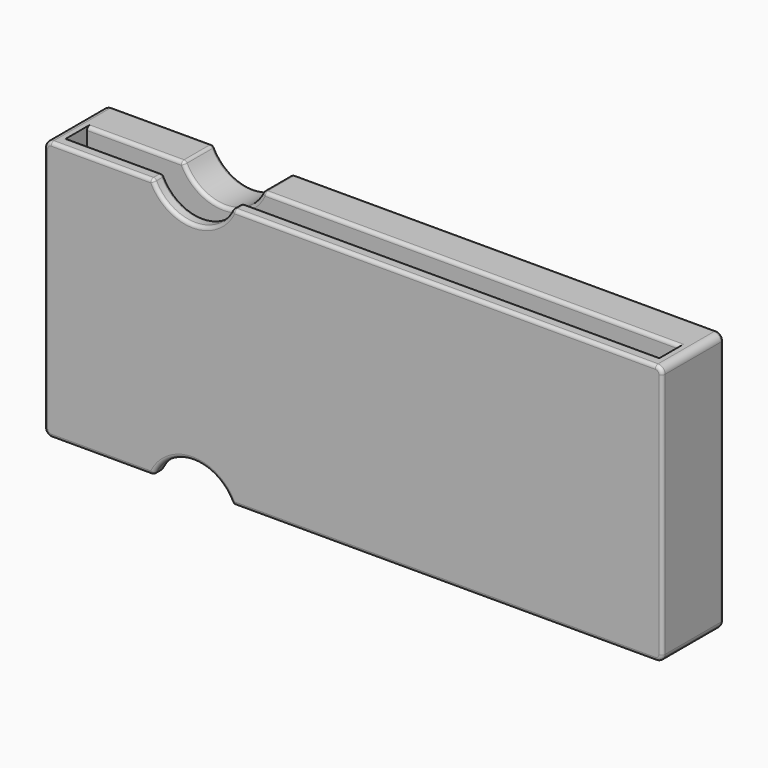
from build123d import *

# Parameters (mm, degrees)
SKETCH_W        = 178
SKETCH_H        = 22.1
SKETCH_W_2      = 171
SKETCH_H_2      = 7
PAD_DEPTH       = 75
SKETCH001_R     = 5.25
POCKET_DEPTH    = 2.1
SKETCH002_R     = 12.5
POCKET001_DEPTH = 50
FILLET_R        = 2
SKETCH003_W     = 50
SKETCH003_H     = 10
POCKET002_DEPTH = 5
FILLET002_R     = 1


with BuildPart() as part:
    # Sketch → Pad (new body)
    with BuildSketch(Plane.XY):
        with Locations((89, 11.05)):
            Rectangle(SKETCH_W, SKETCH_H)
        with Locations((89, 7.5)):
            Rectangle(SKETCH_W_2, SKETCH_H_2, mode=Mode.SUBTRACT)
    extrude(amount=PAD_DEPTH)

    # Sketch001 (on Face3 of Pad) → Pocket (cut)
    with BuildSketch(Plane(origin=(0, 22.1, 0), x_dir=(-1, 0, 0), z_dir=(0, 1, 0))):
        with Locations((-162.75, 59.75)):
            Circle(SKETCH001_R)
        with Locations((-162.75, 15.25)):
            Circle(SKETCH001_R)
        with Locations((-15.25, 59.75)):
            Circle(SKETCH001_R)
        with Locations((-15.25, 15.25)):
            Circle(SKETCH001_R)
        with Locations((-89, 59.75)):
            Circle(SKETCH001_R)
        with Locations((-89, 15.25)):
            Circle(SKETCH001_R)
    extrude(amount=-POCKET_DEPTH, mode=Mode.SUBTRACT)

    # Sketch002 (on Face6 of Pocket) → Pocket001 (cut)
    with BuildSketch(Plane(origin=(0, 22.1, 0), x_dir=(-1, 0, 0), z_dir=(0, 1, 0))):
        with Locations((-42.75, -5)):
            Circle(SKETCH002_R)
        with Locations((-42.75, 80)):
            Circle(SKETCH002_R)
    extrude(amount=-POCKET001_DEPTH, mode=Mode.SUBTRACT)

    # Fillet
    fillet_edges = [part.edges().sort_by_distance(p)[0] for p in [
        (178, 11.05, 75),
        (178, 11.05, 0),
        (0, 11.05, 0),
        (0, 11.05, 75),
    ]]
    fillet(fillet_edges, radius=FILLET_R)

    # Sketch003 (on Face10 of Pocket001) → Pocket002 (cut)
    with BuildSketch(Plane(origin=(0, 22.1, 0), x_dir=(-1, 0, 0), z_dir=(0, 1, 0))):
        with Locations((-25, 37.5)):
            Rectangle(SKETCH003_W, SKETCH003_H)
    extrude(amount=-POCKET002_DEPTH, mode=Mode.SUBTRACT)

    # Fillet002
    fillet002_edges = [part.edges().sort_by_distance(p)[0] for p in [
        (25, 22.1, 32.5),
        (50, 22.1, 37.5),
        (25, 22.1, 42.5),
        (0, 22.1, 17.25),
        (16.64678, 22.1, 0),
        (42.75, 22.1, 7.5),
        (115.10322, 22.1, 0),
        (178, 22.1, 37.5),
        (115.10322, 22.1, 75),
        (114.35322, 11, 75),
        (114.35322, 4, 75),
        (115.10322, 0, 75),
        (42.75, 22.1, 67.5),
        (42.75, 11, 67.5),
        (42.75, 4, 67.5),
        (42.75, 0, 67.5),
        (16.64678, 0, 75),
        (17.39678, 4, 75),
        (17.39678, 11, 75),
        (16.64678, 22.1, 75),
        (0, 22.1, 57.75),
        (0, 17.1, 37.5),
        (0, 19.6, 42.5),
        (0, 19.6, 32.5),
        (0, 0, 37.5),
        (178, 0, 37.5),
        (114.35322, 11, 0),
        (115.10322, 0, 0),
        (114.35322, 4, 0),
        (42.75, 0, 7.5),
        (42.75, 4, 7.5),
        (42.75, 11, 7.5),
        (16.64678, 0, 0),
        (17.39678, 11, 0),
        (17.39678, 4, 0),
        (54.206439, 16.55, 0),
        (31.293561, 16.55, 0),
        (54.206439, 2, 0),
        (31.293561, 2, 0),
        (54.206439, 2, 75),
        (54.206439, 16.55, 75),
        (31.293561, 16.55, 75),
        (31.293561, 2, 75),
    ]]
    fillet(fillet002_edges, radius=FILLET002_R)


solid = part.part
